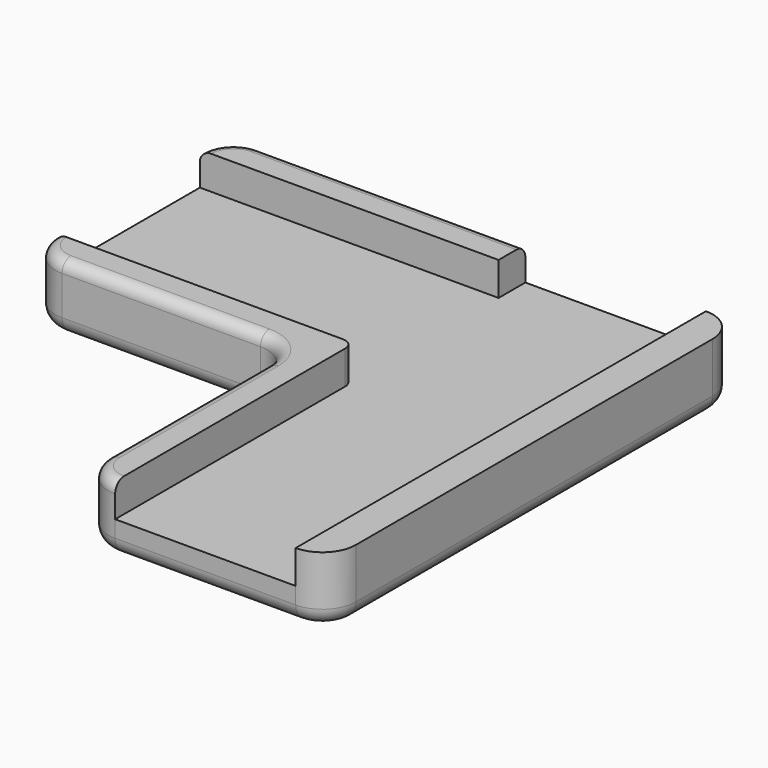
from build123d import *

# Parameters (mm, degrees)
F1_DEPTH = 3
F3_DEPTH = 4
F4_R     = 1.5
F5_R     = 1


with BuildPart() as f1:
    # F0 (on Top) → F1 (new body, symmetric)
    with BuildSketch(Plane.XY):
        with BuildLine():
            Line((3, -40), (3, 0))
            ThreePointArc((3, 0), (2.1213203436, 2.1213203436), (0, 3))
            Line((0, 3), (-40, 3))
            ThreePointArc((-40, 3), (-42.1213203436, 2.1213203436), (-43, 0))
            Line((-43, 0), (-43, -16.2))
            ThreePointArc((-43, -16.2), (-42.1213203436, -18.3213203436), (-40, -19.2))
            Line((-40, -19.2), (-22.2, -19.2))
            ThreePointArc((-22.2, -19.2), (-20.0786796564, -20.0786796564), (-19.2, -22.2))
            Line((-19.2, -22.2), (-19.2, -40))
            ThreePointArc((-19.2, -40), (-18.3213203436, -42.1213203436), (-16.2, -43))
            Line((-16.2, -43), (0, -43))
            ThreePointArc((0, -43), (2.1213203436, -42.1213203436), (3, -40))
        make_face()
    extrude(amount=F1_DEPTH, both=True)

    # F2 (on Top) → F3 (cut)
    with BuildSketch(Plane.XY):
        Polygon((-16.2, 3), (-16.2, 0), (-43, 0), (-43, -16.2), (-16.2, -16.2), (-16.2, -43), (0, -43), (0, -16.2), (0, 0), (0, 3), align=None)
    extrude(amount=F3_DEPTH, mode=Mode.SUBTRACT)

    # F4
    f4_edges = [f1.edges().sort_by_distance(p)[0] for p in [
        (-18.32132, -42.12132, -3),
        (-8.1, -43, -3),
        (2.12132, -42.12132, -3),
        (3, -20, -3),
        (2.12132, 2.12132, -3),
        (-20, 3, -3),
        (-42.12132, 2.12132, -3),
        (-43, -8.1, -3),
        (-42.12132, -18.32132, -3),
        (-31.1, -19.2, -3),
        (-20.07868, -20.07868, -3),
        (-19.2, -31.1, -3),
    ]]
    fillet(f4_edges, radius=F4_R)

    # F5
    f5_edges = [f1.edges().sort_by_distance(p)[0] for p in [
        (-28.1, 3, 3),
        (-19.2, -31.1, 3),
        (-16.2, -16.2, 1.5),
    ]]
    fillet(f5_edges, radius=F5_R)


solid = f1.part
